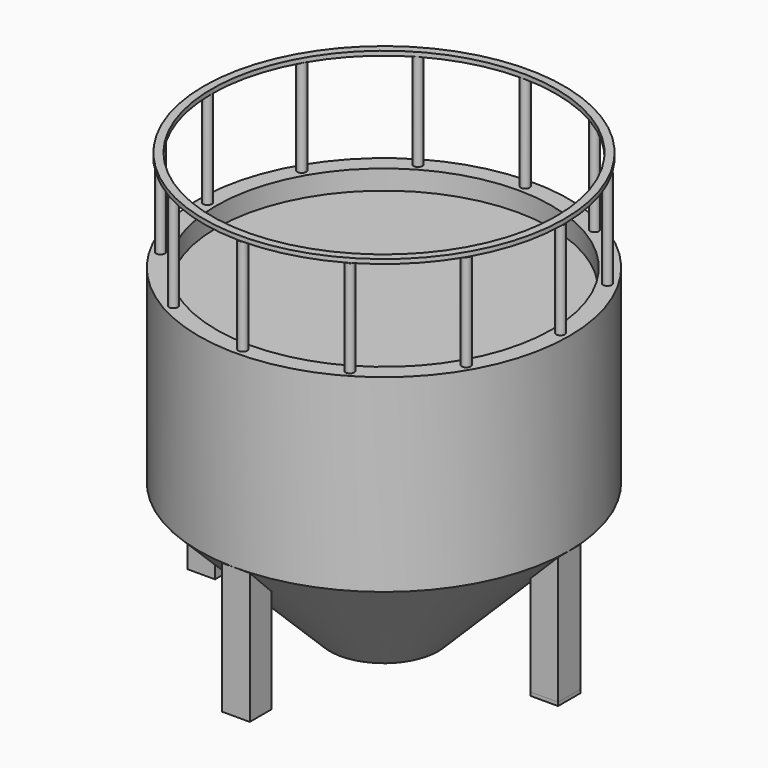
from build123d import *

# Parameters (mm, degrees)
F0_R      = 42.4264068712
F1_DEPTH  = 73.3
F2_SIZE   = 30
F3_T      = -4
F4_R      = 1
F5_DEPTH  = 22.2
F6_R      = 41.25
F6_R_2    = 39.45
F7_DEPTH  = 1
F9_DEPTH  = 3.2
F10_COUNT = 3
F10_ANGLE = 180
F14_R     = 0.8
F13_W     = 100
F13_H     = 50
F15_DEPTH = 200


with BuildPart() as f1:
    # F0 (on Top) → F1 (new body)
    with BuildSketch(Plane.XY):
        Circle(F0_R)
    extrude(amount=F1_DEPTH)

    # F2
    f2_edges = [f1.edges().sort_by_distance(p)[0] for p in [
        (-42.426407, 0, 0),
    ]]
    chamfer(f2_edges, length=F2_SIZE)

    # F3
    f3_openings = [f1.faces().sort_by_distance(p)[0] for p in [
        (0, 0, 73.3),
    ]]
    offset(amount=F3_T, openings=f3_openings)

    # F4 (on face) → F5 (join)
    with BuildSketch(Plane.XY.offset(73.3)):
        with Locations((0, 40.4264068712)):
            Circle(F4_R)
        with Locations((-20.2132034356, 35.0102953342)):
            Circle(F4_R)
        with Locations((-35.0102953342, 20.2132034356)):
            Circle(F4_R)
        with Locations((-40.4264068712, 0)):
            Circle(F4_R)
        with Locations((-35.0102953342, -20.2132034356)):
            Circle(F4_R)
        with Locations((-20.2132034356, -35.0102953342)):
            Circle(F4_R)
        with Locations((0, -40.4264068712)):
            Circle(F4_R)
        with Locations((20.2132034356, -35.0102953342)):
            Circle(F4_R)
        with Locations((35.0102953342, -20.2132034356)):
            Circle(F4_R)
        with Locations((40.4264068712, 0)):
            Circle(F4_R)
        with Locations((35.0102953342, 20.2132034356)):
            Circle(F4_R)
        with Locations((20.2132034356, 35.0102953342)):
            Circle(F4_R)
    extrude(amount=F5_DEPTH)

    # F6 (on face) → F7 (join)
    with BuildSketch(Plane.XY.offset(95.5)):
        Circle(F6_R)
        Circle(F6_R_2, mode=Mode.SUBTRACT)
    extrude(amount=F7_DEPTH)

    # F13 (on Top) → F15 (cut)
    with BuildSketch(Plane.XY):
        with Locations((0, -25)):
            Rectangle(F13_W, F13_H)
    extrude(amount=-F15_DEPTH, mode=Mode.SUBTRACT)


with BuildPart() as f9:
    # F8 (on Front) → F9 (new body, symmetric)
    with BuildSketch(Plane.XZ):
        Polygon((42.4264068712, 30), (36.134865135, 23.7084582638), (36.134865135, 0), (42.4264068712, 0), align=None)
    extrude(amount=F9_DEPTH, both=True)


with BuildPart() as f9b:
    # F8 (on Front) → F9, piece 2 (new body, symmetric)
    with BuildSketch(Plane.XZ):
        Polygon((-36.134865135, 23.7084582638), (-42.4264068712, 30), (-42.4264068712, 0), (-36.134865135, 0), align=None)
    extrude(amount=F9_DEPTH, both=True)


with BuildPart() as f10_1:
    # F10: instance of F9b
    add(f9b.part.rotate(Axis((0, 0, 0), (0, 0, 1)), 1 * F10_ANGLE / (F10_COUNT - 1)))


with BuildPart() as f10_2:
    # F10: instance of F9b
    add(f9b.part.rotate(Axis((0, 0, 0), (0, 0, 1)), 2 * F10_ANGLE / (F10_COUNT - 1)))

    # F14
    f14_edges = [f10_2.edges().sort_by_distance(p)[0] for p in [
        (42.426407, 0, 0),
        (39.280636, -3.2, 0),
        (36.134865, 0, 0),
        (39.280636, 3.2, 0),
    ]]
    fillet(f14_edges, radius=F14_R)


with BuildPart() as f10_3:
    # F10: instance of F9
    add(f9.part.rotate(Axis((0, 0, 0), (0, 0, 1)), 1 * F10_ANGLE / (F10_COUNT - 1)))


with BuildPart() as f10_4:
    # F10: instance of F9
    add(f9.part.rotate(Axis((0, 0, 0), (0, 0, 1)), 2 * F10_ANGLE / (F10_COUNT - 1)))


with BuildPart() as f12:
    # F11 (on Front) → F12 (revolve)
    with BuildSketch(Plane.XZ):
        Polygon((0, 68.8838288188), (-38.3014008403, 68.8838288188), (-38.3014008403, 31.7464359105), (-10.5869285762, 4.0319613181), (0, 4.0319613181), align=None)
    revolve(axis=Axis((0, 0, 32.8284271247), (0, 0, -1)))


solid = Compound([f1.part, f9.part, f9b.part, f10_1.part, f10_2.part, f10_3.part, f10_4.part, f12.part])
